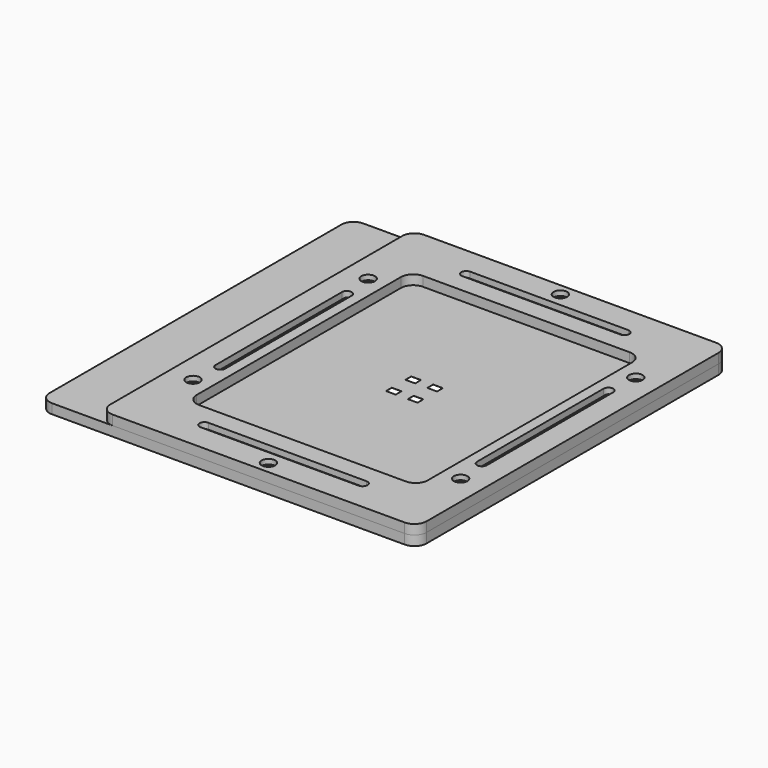
from build123d import *

# Parameters (mm, degrees)
SKETCH_W         = 4
SKETCH_H         = 3
EXTRUDE_DEPTH    = 0.05
EXTRUDE005_DEPTH = 2
SKETCH001_R      = 1.45
EXTRUDE001_DEPTH = 4
SKETCH004_R      = 2.8
EXTRUDE004_DEPTH = 3
SKETCH003_R      = 1.8
EXTRUDE003_DEPTH = 4


with BuildPart() as extrude_body:
    # Sketch → Extrude (new body)
    with BuildSketch(Plane.XY):
        with BuildLine():
            Line((-47, 65.5), (47, 65.5))
            ThreePointArc((52, 60.5), (50.535534, 64.035534), (47, 65.5))
            Line((52, 60.5), (52, -60.5))
            ThreePointArc((47, -65.5), (50.535534, -64.035534), (52, -60.5))
            Line((47, -65.5), (-47, -65.5))
            ThreePointArc((-52, -60.5), (-50.535534, -64.035534), (-47, -65.5))
            Line((-52, -60.5), (-52, 60.5))
            ThreePointArc((-47, 65.5), (-50.535534, 64.035534), (-52, 60.5))
        make_face()
        with Locations((-4.5, 5)):
            Rectangle(SKETCH_W, SKETCH_H, mode=Mode.SUBTRACT)
        with Locations((4.5, 5)):
            Rectangle(SKETCH_W, SKETCH_H, mode=Mode.SUBTRACT)
        with Locations((-4.5, -5)):
            Rectangle(SKETCH_W, SKETCH_H, mode=Mode.SUBTRACT)
        with Locations((4.5, -5)):
            Rectangle(SKETCH_W, SKETCH_H, mode=Mode.SUBTRACT)
    extrude(amount=EXTRUDE_DEPTH)


with BuildPart() as extrude_body_1:
    # Extrude placement: moved
    add(extrude_body.part.moved(Location((0, 0, 4))))


with BuildPart() as extrude005:
    # Sketch002 → Extrude005 (new body)
    with BuildSketch(Plane.XY):
        with BuildLine():
            Line((52.5, 32.5), (52.5, -32.5))
            ThreePointArc((52.5, -32.5), (53.75, -33.75), (55, -32.5))
            Line((55, -32.5), (55, 32.5))
            ThreePointArc((55, 32.5), (53.75, 33.75), (52.5, 32.5))
        make_face()
        with BuildLine():
            Line((-52.5, 32.5), (-52.5, -32.5))
            ThreePointArc((-55, -32.5), (-53.75, -33.75), (-52.5, -32.5))
            Line((-55, -32.5), (-55, 32.5))
            ThreePointArc((-52.5, 32.5), (-53.75, 33.75), (-55, 32.5))
        make_face()
        with BuildLine():
            Line((-32.5, 68.5), (32.5, 68.5))
            ThreePointArc((32.5, 66), (33.75, 67.25), (32.5, 68.5))
            Line((32.5, 66), (-32.5, 66))
            ThreePointArc((-32.5, 68.5), (-33.75, 67.25), (-32.5, 66))
        make_face()
        with BuildLine():
            Line((-32.5, -66), (32.5, -66))
            ThreePointArc((32.5, -68.5), (33.75, -67.25), (32.5, -66))
            Line((32.5, -68.5), (-32.5, -68.5))
            ThreePointArc((-32.5, -66), (-33.75, -67.25), (-32.5, -68.5))
        make_face()
    extrude(amount=EXTRUDE005_DEPTH)


with BuildPart() as extrude005_1:
    # Extrude005 placement: moved
    add(extrude005.part.moved(Location((0, 0, 4))))


with BuildPart() as fusion:
    # Sketch001 → Extrude001 (new body)
    with BuildSketch(Plane.XY):
        with BuildLine():
            Line((-85, 80), (60, 80))
            ThreePointArc((65, 75), (63.535534, 78.535534), (60, 80))
            Line((65, 75), (65, -75))
            ThreePointArc((60, -80), (63.535534, -78.535534), (65, -75))
            Line((60, -80), (-85, -80))
            ThreePointArc((-90, -75), (-88.535534, -78.535534), (-85, -80))
            Line((-90, -75), (-90, 75))
            ThreePointArc((-85, 80), (-88.535534, 78.535534), (-90, 75))
        make_face()
        with Locations((-55, 45)):
            Circle(SKETCH001_R, mode=Mode.SUBTRACT)
        with Locations((55, -45)):
            Circle(SKETCH001_R, mode=Mode.SUBTRACT)
        with Locations((-55, -45)):
            Circle(SKETCH001_R, mode=Mode.SUBTRACT)
        with Locations((55, 45)):
            Circle(SKETCH001_R, mode=Mode.SUBTRACT)
        with Locations((0, 75)):
            Circle(SKETCH001_R, mode=Mode.SUBTRACT)
        with Locations((0, -75)):
            Circle(SKETCH001_R, mode=Mode.SUBTRACT)
        with BuildLine():
            Line((-42.5, 57.5), (42.5, 57.5))
            ThreePointArc((47.5, 52.5), (46.035534, 56.035534), (42.5, 57.5))
            Line((47.5, 52.5), (47.5, -52.5))
            ThreePointArc((42.5, -57.5), (46.035534, -56.035534), (47.5, -52.5))
            Line((42.5, -57.5), (-42.5, -57.5))
            ThreePointArc((-47.5, -52.5), (-46.035534, -56.035534), (-42.5, -57.5))
            Line((-47.5, -52.5), (-47.5, 52.5))
            ThreePointArc((-42.5, 57.5), (-46.035534, 56.035534), (-47.5, 52.5))
        make_face(mode=Mode.SUBTRACT)
    extrude(amount=EXTRUDE001_DEPTH)

    # Fusion: union Extrude005
    add(extrude005_1.part)


with BuildPart() as extrude004:
    # Sketch004 → Extrude004 (new body)
    with BuildSketch(Plane.XY):
        with Locations((-55, 45)):
            Circle(SKETCH004_R)
        with Locations((55, -45)):
            Circle(SKETCH004_R)
        with Locations((-55, -45)):
            Circle(SKETCH004_R)
        with Locations((55, 45)):
            Circle(SKETCH004_R)
        with Locations((0, -75)):
            Circle(SKETCH004_R)
        with Locations((0, 75)):
            Circle(SKETCH004_R)
    extrude(amount=EXTRUDE004_DEPTH)


with BuildPart() as extrude004_1:
    # Extrude004 placement: moved
    add(extrude004.part.moved(Location((0, 0, 6))))


with BuildPart() as cut:
    # Sketch003 → Extrude003 (new body)
    with BuildSketch(Plane.XY):
        with BuildLine():
            Line((-60, 80), (60, 80))
            ThreePointArc((65, 75), (63.535534, 78.535534), (60, 80))
            Line((65, 75), (65, -75))
            ThreePointArc((60, -80), (63.535534, -78.535534), (65, -75))
            Line((60, -80), (-60, -80))
            ThreePointArc((-65, -75), (-63.535534, -78.535534), (-60, -80))
            Line((-65, -75), (-65, 75))
            ThreePointArc((-60, 80), (-63.535534, 78.535534), (-65, 75))
        make_face()
        with Locations((-55, 45)):
            Circle(SKETCH003_R, mode=Mode.SUBTRACT)
        with Locations((55, -45)):
            Circle(SKETCH003_R, mode=Mode.SUBTRACT)
        with Locations((-55, -45)):
            Circle(SKETCH003_R, mode=Mode.SUBTRACT)
        with Locations((55, 45)):
            Circle(SKETCH003_R, mode=Mode.SUBTRACT)
        with Locations((0, -75)):
            Circle(SKETCH003_R, mode=Mode.SUBTRACT)
        with Locations((0, 75)):
            Circle(SKETCH003_R, mode=Mode.SUBTRACT)
        with BuildLine():
            Line((-42.5, 57.5), (42.5, 57.5))
            ThreePointArc((47.5, 52.5), (46.035534, 56.035534), (42.5, 57.5))
            Line((47.5, 52.5), (47.5, -52.5))
            ThreePointArc((42.5, -57.5), (46.035534, -56.035534), (47.5, -52.5))
            Line((42.5, -57.5), (-42.5, -57.5))
            ThreePointArc((-47.5, -52.5), (-46.035534, -56.035534), (-42.5, -57.5))
            Line((-47.5, -52.5), (-47.5, 52.5))
            ThreePointArc((-42.5, 57.5), (-46.035534, 56.035534), (-47.5, 52.5))
        make_face(mode=Mode.SUBTRACT)
        with BuildLine():
            ThreePointArc((-51.75, 32.5), (-53.75, 34.5), (-55.75, 32.5))
            Line((-55.75, 32.5), (-55.75, -32.5))
            ThreePointArc((-55.75, -32.5), (-53.75, -34.5), (-51.75, -32.5))
            Line((-51.75, 32.5), (-51.75, -32.5))
        make_face(mode=Mode.SUBTRACT)
        with BuildLine():
            ThreePointArc((-32.5, -65.25), (-34.5, -67.25), (-32.5, -69.25))
            Line((-32.5, -69.25), (32.5, -69.25))
            ThreePointArc((32.5, -69.25), (34.5, -67.25), (32.5, -65.25))
            Line((-32.5, -65.25), (32.5, -65.25))
        make_face(mode=Mode.SUBTRACT)
        with BuildLine():
            ThreePointArc((55.75, 32.5), (53.75, 34.5), (51.75, 32.5))
            Line((51.75, 32.5), (51.75, -32.5))
            ThreePointArc((51.75, -32.5), (53.75, -34.5), (55.75, -32.5))
            Line((55.75, 32.5), (55.75, -32.5))
        make_face(mode=Mode.SUBTRACT)
        with BuildLine():
            ThreePointArc((-32.5, 69.25), (-34.5, 67.25), (-32.5, 65.25))
            Line((-32.5, 65.25), (32.5, 65.25))
            ThreePointArc((32.5, 65.25), (34.5, 67.25), (32.5, 69.25))
            Line((-32.5, 69.25), (32.5, 69.25))
        make_face(mode=Mode.SUBTRACT)
    extrude(amount=EXTRUDE003_DEPTH)


with BuildPart() as cut_1:
    # Extrude003 placement: moved
    add(cut.part.moved(Location((0, 0, 4))))

    # Cut: cut Extrude004
    add(extrude004_1.part, mode=Mode.SUBTRACT)


solid = Compound([extrude_body_1.part, fusion.part, cut_1.part])
